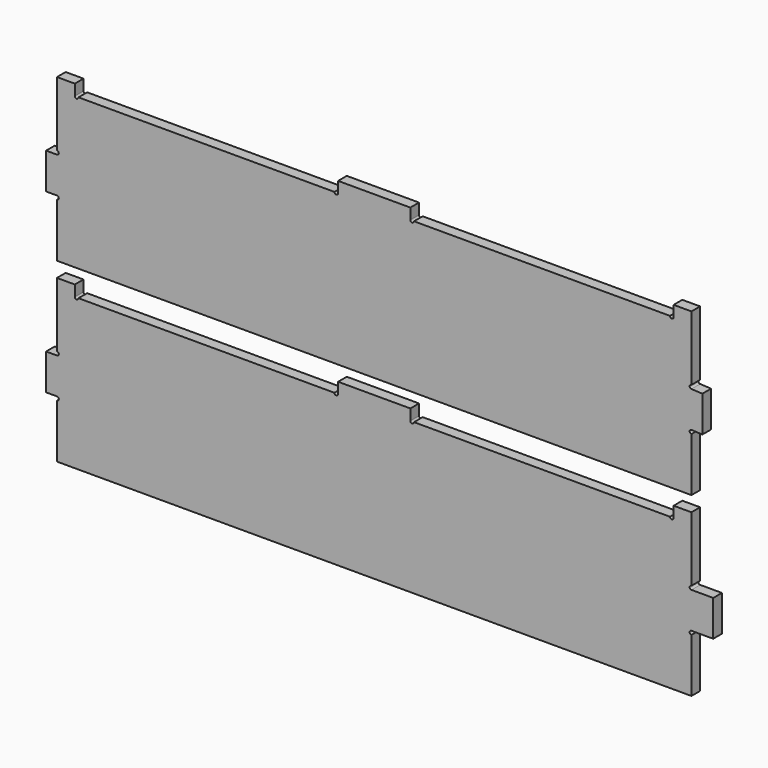
from build123d import *

# Parameters (mm, degrees)
F1_DEPTH = 18
F2_DEPTH = 18


with BuildPart() as f1:
    # F0 (on Front) → F1 (new body)
    with BuildSketch(Plane.XZ):
        with BuildLine():
            Line((59.750059, -882.499732), (-59.750061, -882.499732))
            Line((-59.750061, -882.499732), (-59.750061, -900.49975))
            ThreePointArc((-59.750061, -900.49975), (-62.760061, -903.50975), (-65.770061, -900.49975))
            Line((-65.770061, -900.49975), (-489.230416, -900.49975))
            ThreePointArc((-489.230416, -900.49975), (-492.240416, -903.50975), (-495.250416, -900.49975))
            Line((-495.250416, -900.49975), (-495.250416, -882.499732))
            Line((-495.250416, -882.499732), (-524.750446, -882.499732))
            Line((-524.750446, -882.499732), (-524.750446, -989.479835))
            ThreePointArc((-524.750446, -989.479835), (-521.740446, -992.489835), (-524.750446, -995.499835))
            Line((-524.750446, -995.499835), (-542.750482, -995.499835))
            Line((-542.750482, -995.499835), (-542.750482, -1054.999895))
            Line((-542.750482, -1054.999895), (-524.750446, -1054.999895))
            ThreePointArc((-524.750446, -1054.999895), (-521.740446, -1058.009895), (-524.750446, -1061.019895))
            Line((-524.750446, -1061.019895), (-524.750446, -1150))
            Line((-524.750446, -1150), (524.750445, -1150))
            Line((524.750445, -1150), (524.750445, -1061.019895))
            ThreePointArc((524.750445, -1061.019895), (521.740445, -1058.009895), (524.750445, -1054.999895))
            Line((524.750445, -1054.999895), (560.750481, -1054.999895))
            Line((560.750481, -1054.999895), (560.750481, -995.499835))
            Line((560.750481, -995.499835), (524.750445, -995.499835))
            ThreePointArc((524.750445, -995.499835), (521.740445, -992.489835), (524.750445, -989.479835))
            Line((524.750445, -989.479835), (524.750445, -882.499732))
            Line((524.750445, -882.499732), (495.250415, -882.499732))
            Line((495.250415, -882.499732), (495.250415, -900.49975))
            ThreePointArc((495.250415, -900.49975), (492.240415, -903.50975), (489.230415, -900.49975))
            Line((489.230415, -900.49975), (65.770059, -900.49975))
            ThreePointArc((65.770059, -900.49975), (62.760059, -903.50975), (59.750059, -900.49975))
            Line((59.750059, -900.49975), (59.750059, -882.499732))
        make_face()
    extrude(amount=F1_DEPTH)


with BuildPart() as f2:
    # F0 (on Front) → F2 (new body)
    with BuildSketch(Plane.XZ):
        with BuildLine():
            Line((59.750059, -589.999464), (-59.750061, -589.999464))
            Line((-59.750061, -589.999464), (-59.750061, -607.999482))
            ThreePointArc((-59.750061, -607.999482), (-62.760061, -611.009482), (-65.770061, -607.999482))
            Line((-65.770061, -607.999482), (-489.230416, -607.999482))
            ThreePointArc((-489.230416, -607.999482), (-492.240416, -611.009482), (-495.250416, -607.999482))
            Line((-495.250416, -607.999482), (-495.250416, -589.999464))
            Line((-495.250416, -589.999464), (-524.750446, -589.999464))
            Line((-524.750446, -589.999464), (-524.750446, -696.979567))
            ThreePointArc((-524.750446, -696.979567), (-521.740446, -699.989567), (-524.750446, -702.999567))
            Line((-524.750446, -702.999567), (-542.750482, -702.999567))
            Line((-542.750482, -702.999567), (-542.750482, -762.499627))
            Line((-542.750482, -762.499627), (-524.750446, -762.499627))
            ThreePointArc((-524.750446, -762.499627), (-521.740446, -765.509627), (-524.750446, -768.519627))
            Line((-524.750446, -768.519627), (-524.750446, -857.499732))
            Line((-524.750446, -857.499732), (524.750445, -857.499732))
            Line((524.750445, -857.499732), (524.750445, -768.519627))
            ThreePointArc((524.750445, -768.519627), (521.740445, -765.509627), (524.750445, -762.499627))
            Line((524.750445, -762.499627), (542.773967, -763.418841))
            Line((542.773967, -763.418841), (542.773967, -703.918781))
            Line((542.773967, -703.918781), (524.750445, -702.999567))
            ThreePointArc((524.750445, -702.999567), (521.740445, -699.989567), (524.750445, -696.979567))
            Line((524.750445, -696.979567), (524.750445, -589.999464))
            Line((524.750445, -589.999464), (495.250415, -589.999464))
            Line((495.250415, -589.999464), (495.250415, -607.999482))
            ThreePointArc((495.250415, -607.999482), (492.240415, -611.009482), (489.230415, -607.999482))
            Line((489.230415, -607.999482), (65.770059, -607.999482))
            ThreePointArc((65.770059, -607.999482), (62.760059, -611.009482), (59.750059, -607.999482))
            Line((59.750059, -607.999482), (59.750059, -589.999464))
        make_face()
    extrude(amount=F2_DEPTH)


solid = Compound([f1.part, f2.part])
